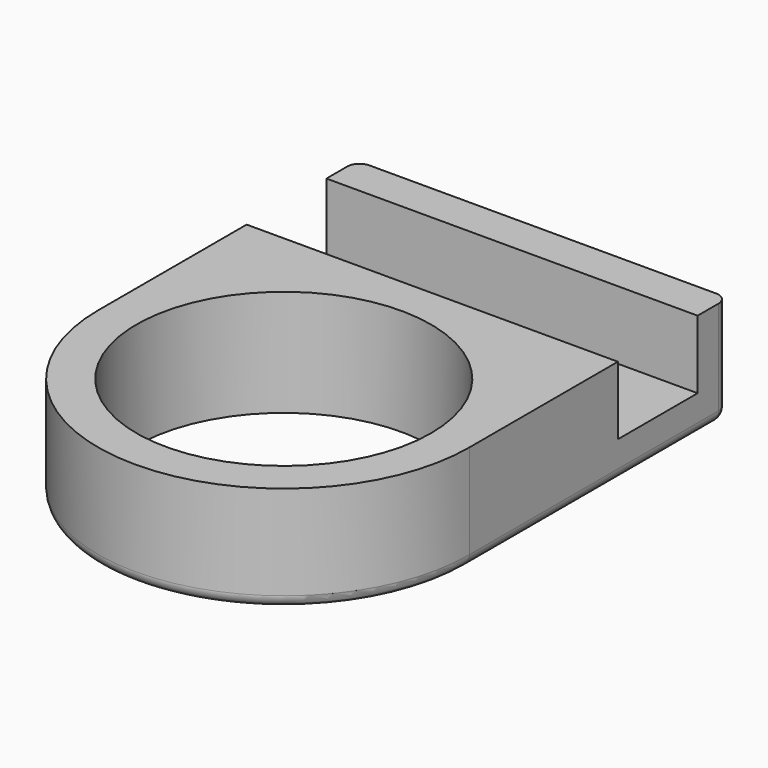
from build123d import *

# Parameters (mm, degrees)
F0_R     = 24.384
F1_DEPTH = 6.35
F2_W     = 61.468
F2_H     = 6.35
F2_R     = 24.384
F3_DEPTH = 11.303
F4_R     = 2.032


with BuildPart() as f1:
    # F0 (on Top) → F1 (new body)
    with BuildSketch(Plane.XY):
        with BuildLine():
            Line((-30.734, 53.594), (-30.734, 0))
            ThreePointArc((-30.734, 0), (0, -30.734), (30.734, 0))
            Line((30.734, 0), (30.734, 53.594))
            Line((30.734, 53.594), (-30.734, 53.594))
        make_face()
        Circle(F0_R, mode=Mode.SUBTRACT)
    extrude(amount=F1_DEPTH)

    # F2 (on face) → F3 (join)
    with BuildSketch(Plane.XY.offset(6.35)):
        with Locations((0, 50.419)):
            Rectangle(F2_W, F2_H)
        with BuildLine():
            Line((30.734, 30.734), (-30.734, 30.734))
            Line((-30.734, 30.734), (-30.734, 0))
            ThreePointArc((-30.734, 0), (0, -30.734), (30.734, 0))
            Line((30.734, 0), (30.734, 30.734))
        make_face()
        Circle(F2_R, mode=Mode.SUBTRACT)
    extrude(amount=F3_DEPTH)

    # F4
    f4_edges = [f1.edges().sort_by_distance(p)[0] for p in [
        (0, -30.734, 0),
        (0, 53.594, 0),
        (30.734, 53.594, 8.8265),
        (-30.734, 53.594, 8.8265),
    ]]
    fillet(f4_edges, radius=F4_R)


solid = f1.part
